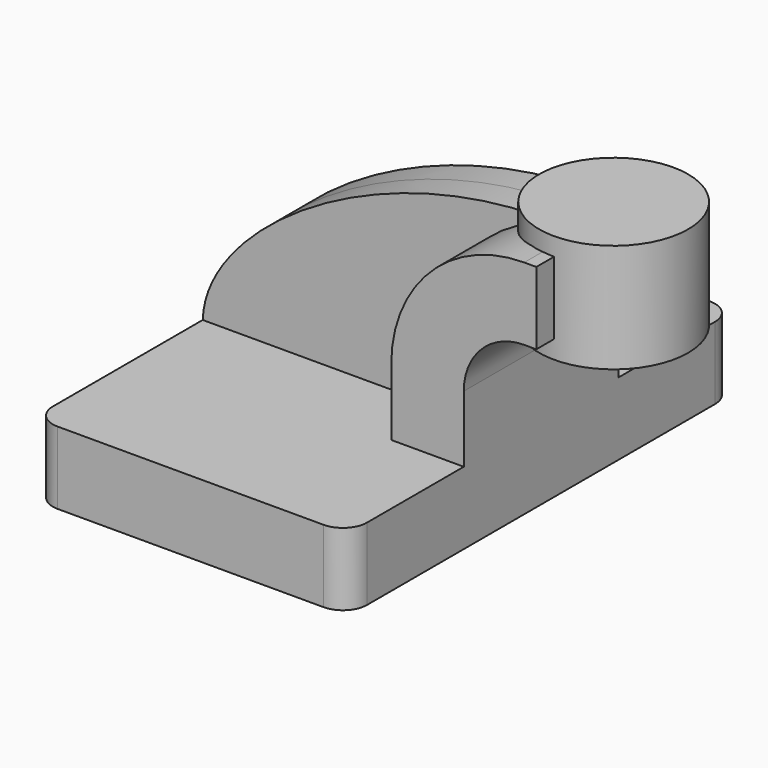
from build123d import *

# Parameters (mm, degrees)
F1_DEPTH = 63.5
F2_DEPTH = 25.4
F3_DEPTH = 7.9375
F0_W     = 19.5734977533
F0_H     = 19.05
F0_H_2   = 4.7752
F0_H_3   = 4.7498
F5_R     = 6.35


with BuildPart() as f1:
    # F0 (on Front) → F1 (new body, symmetric)
    with BuildSketch(Plane.XZ):
        Polygon((-41.275, -9.525), (41.275, -9.525), (41.275, 9.525), (22.225, 9.525), (-41.275, 9.525), align=None)
    extrude(amount=F1_DEPTH, both=True)

    # F0 (on Front) → F2 (join, symmetric)
    with BuildSketch(Plane.XZ):
        with BuildLine():
            Line((22.225, 9.525), (41.275, 9.525))
            Line((41.275, 9.525), (41.275, 27.0002))
            ThreePointArc((41.275, 27.0002), (45.9246798487, 38.2255201513), (57.15, 42.8752))
            Line((57.15, 42.8752), (60.325, 42.8752))
            Line((60.325, 42.8752), (60.325, 61.9252))
            Line((60.325, 61.9252), (57.15, 61.9252))
            ThreePointArc((57.15, 61.9252), (32.4542956671, 51.6959043329), (22.225, 27.0002))
            Line((22.225, 27.0002), (22.225, 9.525))
        make_face()
    extrude(amount=F2_DEPTH, both=True)

    # F0 (on Front) → F3 (join, symmetric)
    with BuildSketch(Plane.XZ):
        with BuildLine():
            add(Edge.make_bspline(
                [(-41.275, 9.525), (-40.5122078955, 34.1071225703), (8.1664975733, 65.8123269677), (57.15, 61.9252)],
                knots=[0, 0, 0, 0, 111.5045361635, 111.5045361635, 111.5045361635, 111.5045361635], degree=3))
            Line((-41.275, 9.525), (22.225, 9.525))
            Line((22.225, 9.525), (22.225, 27.0002))
            ThreePointArc((22.225, 27.0002), (32.4542956671, 51.6959043329), (57.15, 61.9252))
        make_face()
    extrude(amount=F3_DEPTH, both=True)

    # F5
    f5_edges = [f1.edges().sort_by_distance(p)[0] for p in [
        (41.275, -63.5, 0),
        (41.275, 63.5, 0),
        (-41.275, 63.5, 0),
        (-41.275, -63.5, 0),
    ]]
    fillet(f5_edges, radius=F5_R)


with BuildPart() as f4:
    # F0 (on Front) → F4 (revolve)
    with BuildSketch(Plane.XZ):
        with Locations((70.1117488767, 52.4002)):
            Rectangle(F0_W, F0_H)
        with Locations((70.1117488767, 40.4876)):
            Rectangle(F0_W, F0_H_2)
        with Locations((70.1117488767, 64.3001)):
            Rectangle(F0_W, F0_H_3)
    revolve(axis=Axis((60.325, 0, 52.3875), (0, 0, 1)))


solid = Compound([f1.part, f4.part])
